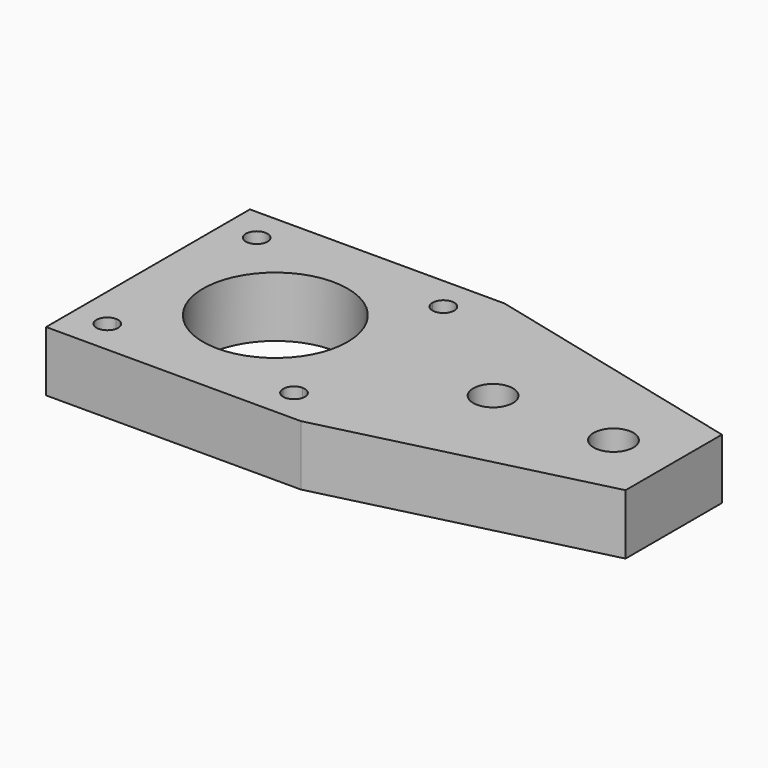
from build123d import *

# Parameters (mm, degrees)
F0_W     = 45
F0_H     = 20
F0_R     = 3.3
F0_R_2   = 12
F1_DEPTH = 10


with BuildPart() as f1:
    # F0 (on Top) → F1 (new body)
    with BuildSketch(Plane.XY):
        with Locations((43.65, 0)):
            Rectangle(F0_W, F0_H)
        with Locations((36.15, 0)):
            Circle(F0_R, mode=Mode.SUBTRACT)
        with Locations((56.15, 0)):
            Circle(F0_R, mode=Mode.SUBTRACT)
        Polygon((66.15, 10), (21.15, 21.15), (21.15, 10), align=None)
        Polygon((66.15, -10), (21.15, -10), (21.15, -21.15), align=None)
        Polygon((21.15, 10), (21.15, 21.15), (-21.15, 21.15), (-21.15, -21.15), (21.15, -21.15), (21.15, -10), align=None)
        with BuildLine():
            ThreePointArc((-15.5, 13.7), (-16.772792, 16.772792), (-13.7, 15.5))
            Line((-13.7, 15.5), (13.7, 15.5))
            ThreePointArc((13.7, 15.5), (15.5, 17.3), (17.3, 15.5))
            ThreePointArc((17.3, 15.5), (16.772792, 14.227208), (15.5, 13.7))
            Line((15.5, 13.7), (15.5, -13.7))
            ThreePointArc((15.5, -13.7), (16.772792, -14.227208), (17.3, -15.5))
            ThreePointArc((17.3, -15.5), (15.5, -17.3), (13.7, -15.5))
            Line((13.7, -15.5), (-13.7, -15.5))
            ThreePointArc((-13.7, -15.5), (-16.772792, -16.772792), (-15.5, -13.7))
            Line((-15.5, -13.7), (-15.5, 13.7))
        make_face(mode=Mode.SUBTRACT)
        with BuildLine():
            Line((13.7, 15.5), (-13.7, 15.5))
            ThreePointArc((-13.7, 15.5), (-14.227208, 14.227208), (-15.5, 13.7))
            Line((-15.5, 13.7), (-15.5, -13.7))
            ThreePointArc((-15.5, -13.7), (-14.227208, -14.227208), (-13.7, -15.5))
            Line((-13.7, -15.5), (13.7, -15.5))
            ThreePointArc((13.7, -15.5), (14.227208, -14.227208), (15.5, -13.7))
            Line((15.5, -13.7), (15.5, 13.7))
            ThreePointArc((15.5, 13.7), (14.227208, 14.227208), (13.7, 15.5))
        make_face()
        Circle(F0_R_2, mode=Mode.SUBTRACT)
    extrude(amount=F1_DEPTH)


solid = f1.part
